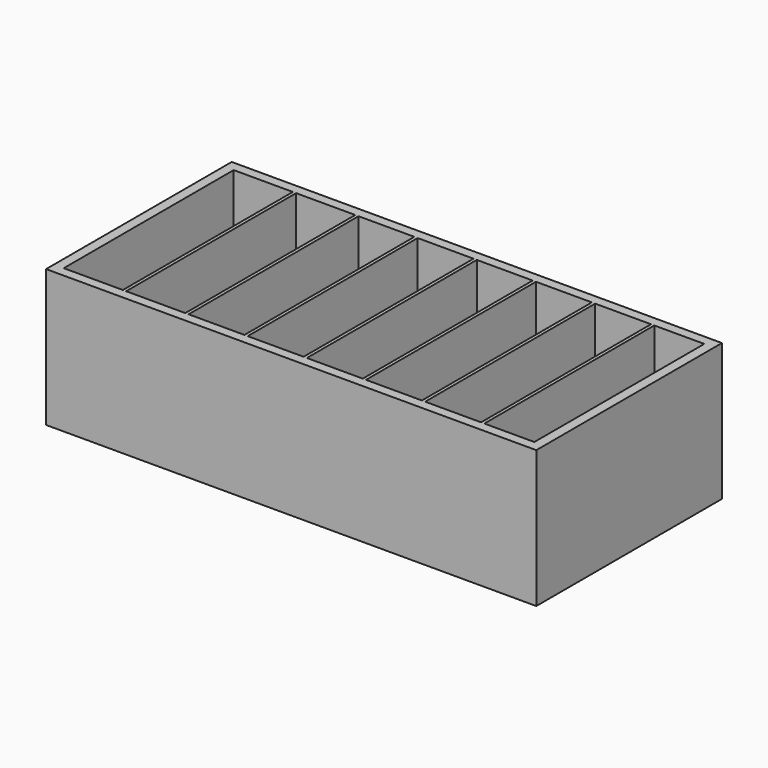
from build123d import *

# Parameters (mm, degrees)
F0_W     = 150
F0_H     = 71
F1_DEPTH = 2
F2_W     = 150
F2_H     = 71
F2_W_2   = 144
F2_H_2   = 65
F3_DEPTH = 40
F4_W     = 1
F4_H     = 65
F5_DEPTH = 40
F6_W     = 1
F6_H     = 65
F7_DEPTH = 40


with BuildPart() as f1:
    # F0 (on Top) → F1 (new body)
    with BuildSketch(Plane.XY):
        with Locations((75, 35.5)):
            Rectangle(F0_W, F0_H)
    extrude(amount=F1_DEPTH)

    # F2 (on face) → F3 (join)
    with BuildSketch(Plane.XY.offset(2)):
        with Locations((75, 35.5)):
            Rectangle(F2_W, F2_H)
        with Locations((75, 35.5)):
            Rectangle(F2_W_2, F2_H_2, mode=Mode.SUBTRACT)
    extrude(amount=F3_DEPTH)

    # F4 (on face) → F5 (join)
    with BuildSketch(Plane.XY.offset(2)):
        with Locations((21.6, 35.5)):
            Rectangle(F4_W, F4_H)
    extrude(amount=F5_DEPTH)

    # F6 (on face) → F7 (join)
    with BuildSketch(Plane.XY.offset(2)):
        with Locations((40.7, 35.5)):
            Rectangle(F6_W, F6_H)
        with Locations((58.8, 35.5)):
            Rectangle(F6_W, F6_H)
        with Locations((76.9, 35.5)):
            Rectangle(F6_W, F6_H)
        with Locations((95, 35.5)):
            Rectangle(F6_W, F6_H)
        with Locations((113.1, 35.5)):
            Rectangle(F6_W, F6_H)
        with Locations((131.2, 35.5)):
            Rectangle(F6_W, F6_H)
    extrude(amount=F7_DEPTH)


solid = f1.part
